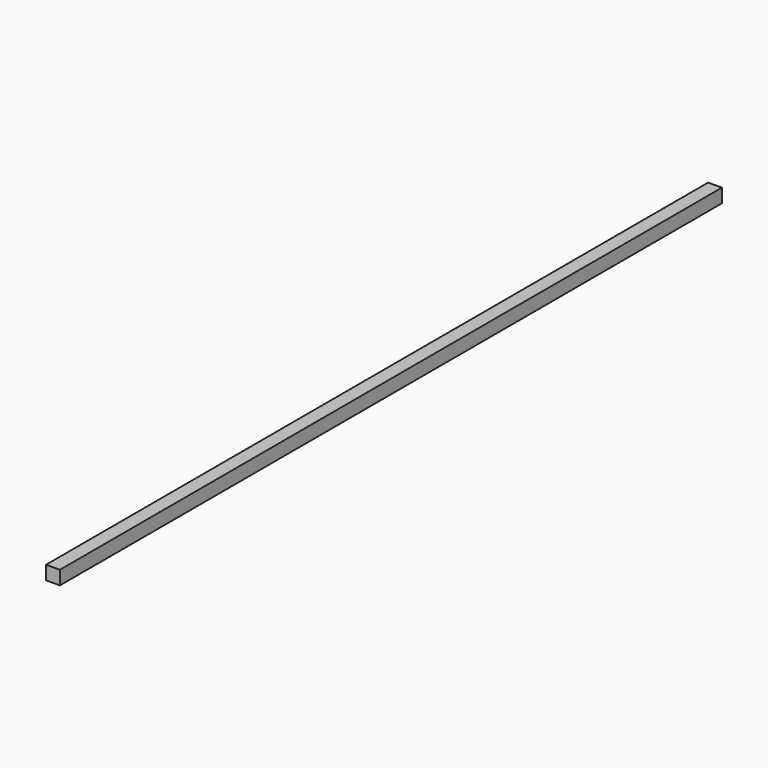
from build123d import *

# Parameters (mm, degrees)
F1_W = 20
F1_H = 20


with BuildPart() as f2:
    # F2: sweep along a path in F0
    with BuildLine(Plane.YZ) as f2_path:
        Line((0, 0), (-1200, 0))
    # F1 (on Front) → F2 (sweep)
    with BuildSketch(Plane.XZ):
        with Locations((10, 10)):
            Rectangle(F1_W, F1_H)
    sweep(path=f2_path.line)


solid = f2.part
